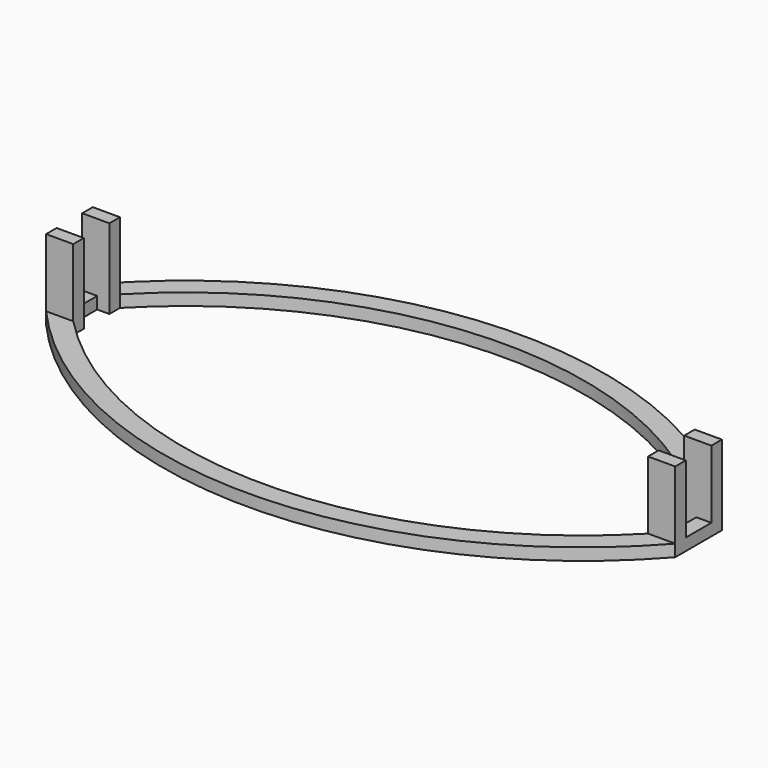
from build123d import *

# Parameters (mm, degrees)
F0_W     = 3.75
F0_H     = 8
F1_DEPTH = 3
F2_DEPTH = 20


with BuildPart() as f1:
    # F0 (on Top) → F1 (new body)
    with BuildSketch(Plane.XY):
        with BuildLine():
            Line((-3.75, 11.307189), (3.051668, 11.307189))
            ThreePointArc((3.051668, 11.307189), (75, 41.856217), (146.948332, 11.307189))
            Line((146.948332, 11.307189), (153.75, 11.307189))
            ThreePointArc((153.75, 11.307189), (75, 46.856217), (-3.75, 11.307189))
        make_face()
        with BuildLine():
            ThreePointArc((146.948332, -3.307189), (75, -33.856217), (3.051668, -3.307189))
            Line((3.051668, -3.307189), (-3.75, -3.307189))
            ThreePointArc((-3.75, -3.307189), (75, -38.856217), (153.75, -3.307189))
            Line((153.75, -3.307189), (146.948332, -3.307189))
        make_face()
        with Locations((151.875, 4)):
            Rectangle(F0_W, F0_H)
        with Locations((-1.875, 4)):
            Rectangle(F0_W, F0_H)
    extrude(amount=F1_DEPTH)

    # F0 (on Top) → F2 (join)
    with BuildSketch(Plane.XY):
        with BuildLine():
            Line((-3.75, 8), (0, 8))
            ThreePointArc((0, 8), (1.507229, 9.670762), (3.051668, 11.307189))
            Line((3.051668, 11.307189), (-3.75, 11.307189))
            Line((-3.75, 11.307189), (-3.75, 8))
        make_face()
        with BuildLine():
            ThreePointArc((3.051668, 11.307189), (1.507229, 9.670762), (0, 8))
            Line((0, 8), (3.051668, 8))
            Line((3.051668, 8), (3.051668, 11.307189))
        make_face()
        with BuildLine():
            ThreePointArc((3.051668, -3.307189), (1.507229, -1.670762), (0, 0))
            Line((0, 0), (-3.75, 0))
            Line((-3.75, 0), (-3.75, -3.307189))
            Line((-3.75, -3.307189), (3.051668, -3.307189))
        make_face()
        with BuildLine():
            Line((3.051668, 0), (0, 0))
            ThreePointArc((0, 0), (1.507229, -1.670762), (3.051668, -3.307189))
            Line((3.051668, -3.307189), (3.051668, 0))
        make_face()
        with BuildLine():
            Line((153.75, 11.307189), (146.948332, 11.307189))
            ThreePointArc((146.948332, 11.307189), (148.492771, 9.670762), (150, 8))
            Line((150, 8), (153.75, 8))
            Line((153.75, 8), (153.75, 11.307189))
        make_face()
        with BuildLine():
            ThreePointArc((150, 8), (148.492771, 9.670762), (146.948332, 11.307189))
            Line((146.948332, 11.307189), (146.948332, 8))
            Line((146.948332, 8), (150, 8))
        make_face()
        with BuildLine():
            ThreePointArc((150, 0), (148.492771, -1.670762), (146.948332, -3.307189))
            Line((146.948332, -3.307189), (153.75, -3.307189))
            Line((153.75, -3.307189), (153.75, 0))
            Line((153.75, 0), (150, 0))
        make_face()
        with BuildLine():
            Line((146.948332, 0), (146.948332, -3.307189))
            ThreePointArc((146.948332, -3.307189), (148.492771, -1.670762), (150, 0))
            Line((150, 0), (146.948332, 0))
        make_face()
    extrude(amount=F2_DEPTH)


solid = f1.part
